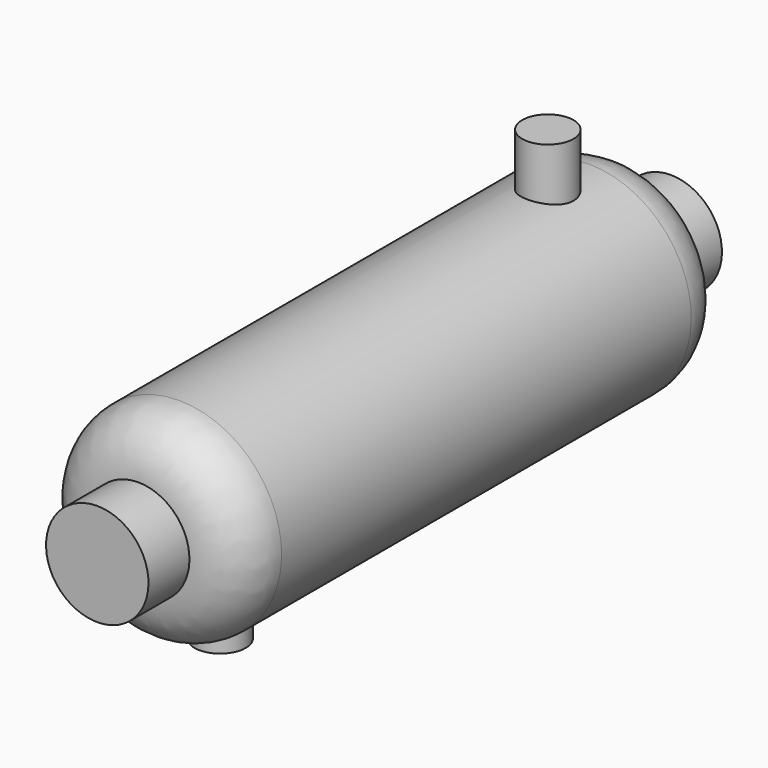
from build123d import *

# Parameters (mm, degrees)
F0_W     = 50
F0_H     = 50
F2_R     = 25
F3_DEPTH = 150
F4_DEPTH = 125


with BuildPart() as f1:
    # F0 (on Right) → F1 (revolve)
    with BuildSketch(Plane.YZ):
        with Locations((-325, 25)):
            Rectangle(F0_W, F0_H)
        with BuildLine():
            Line((-300, 0), (0, 0))
            Line((0, 0), (300, 0))
            Line((300, 0), (300, 50))
            ThreePointArc((300, 50), (285.355339, 85.355339), (250, 100))
            Line((250, 100), (-250, 100))
            ThreePointArc((-250, 100), (-285.355339, 85.355339), (-300, 50))
            Line((-300, 50), (-300, 0))
        make_face()
        with Locations((325, 25)):
            Rectangle(F0_W, F0_H)
    revolve(axis=Axis((0, 79.503536, 0), (0, 1, 0)))

    # F2 (on Top) → F3 (join)
    with BuildSketch(Plane.XY):
        with Locations((0, 200)):
            Circle(F2_R)
    extrude(amount=F3_DEPTH)

    # F2 (on Top) → F4 (join)
    with BuildSketch(Plane.XY):
        with Locations((0, -200)):
            Circle(F2_R)
    extrude(amount=-F4_DEPTH)


solid = f1.part
